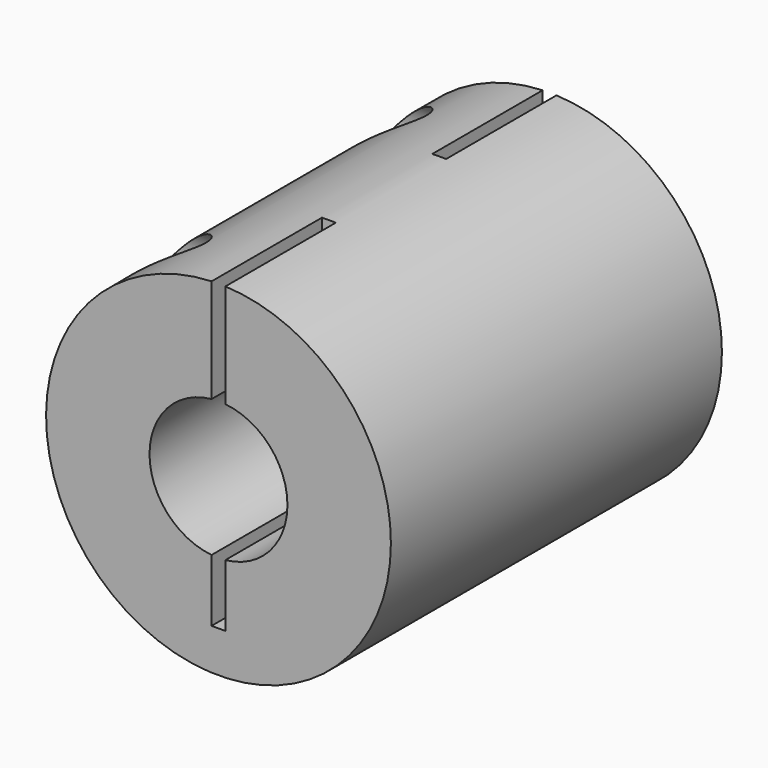
from build123d import *

# Parameters (mm, degrees)
F0_R          = 12.5
F1_DEPTH      = 30
F2_R          = 5
F3_DEPTH      = 20
F4_R          = 3.15
F5_DEPTH      = 10
F6_W          = 10
F6_H          = 22
F7_DEPTH      = 0.5
F7_DEPTH_BACK = 0.5
F8_R          = 3
F9_DEPTH      = 12.501


with BuildPart() as f1:
    # F0 (on Front) → F1 (new body)
    with BuildSketch(Plane.XZ):
        Circle(F0_R)
    extrude(amount=-F1_DEPTH)

    # F2 (on face) → F3 (cut)
    with BuildSketch(Plane.XZ):
        Circle(F2_R)
    extrude(amount=-F3_DEPTH, mode=Mode.SUBTRACT)

    # F4 (on face) → F5 (cut, through all)
    with BuildSketch(Plane(origin=(0, 30, 0), x_dir=(-1, 0, 0), z_dir=(0, 1, 0))):
        Circle(F4_R)
    extrude(amount=-F5_DEPTH, mode=Mode.SUBTRACT)

    # F6 (on Right) → F7 (cut, two sides)
    with BuildSketch(Plane.YZ) as f7_sk:
        with Locations((5, 1.5)):
            Rectangle(F6_W, F6_H)
        with Locations((25, 1.5)):
            Rectangle(F6_W, F6_H)
    extrude(amount=-F7_DEPTH, mode=Mode.SUBTRACT)
    extrude(f7_sk.sketch, amount=F7_DEPTH_BACK, mode=Mode.SUBTRACT)

    # F8 (on Right) → F9 (cut, through all)
    with BuildSketch(Plane.YZ):
        with Locations((5, 8.5)):
            Circle(F8_R)
        with Locations((25, 8.5)):
            Circle(F8_R)
    extrude(amount=-F9_DEPTH, mode=Mode.SUBTRACT)


solid = f1.part
